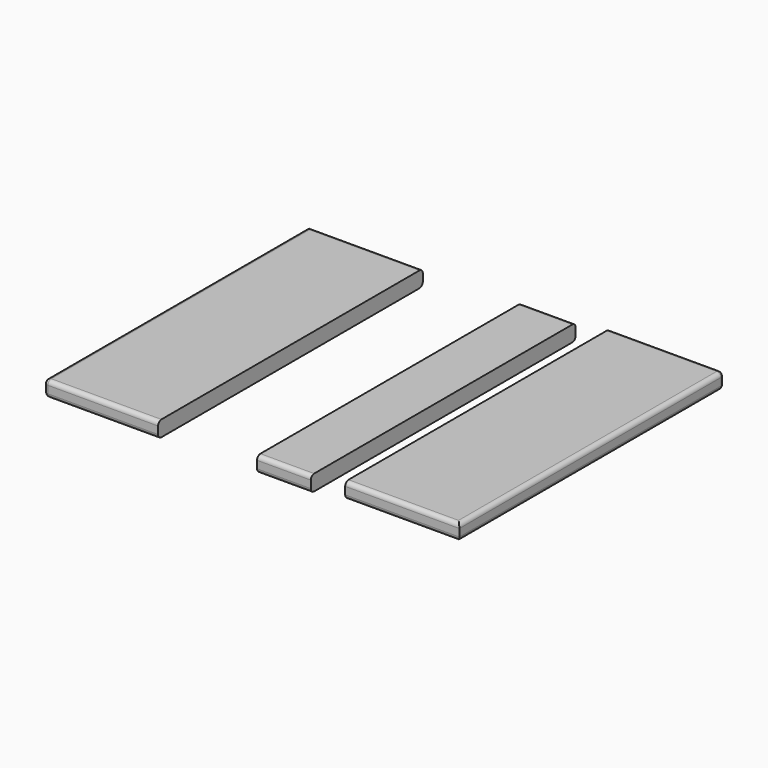
from build123d import *

# Parameters (mm, degrees)
F0_W     = 138
F0_H     = 400
F0_W_2   = 65
F1_DEPTH = 19
F2_R     = 5
F3_R     = 5


with BuildPart() as f1:
    # F0 (on Top) → F1 (new body)
    with BuildSketch(Plane.XY):
        with Locations((-127.417857, 129.780379)):
            Rectangle(F0_W, F0_H)
        with Locations((90.818478, 133.431737)):
            Rectangle(F0_W_2, F0_H)
        with Locations((225.506747, 143.803065)):
            Rectangle(F0_W, F0_H)
    extrude(amount=F1_DEPTH)

    # F2
    f2_edges = [f1.edges().sort_by_distance(p)[0] for p in [
        (-196.417857, 129.780379, 19),
        (-127.417857, 329.780379, 19),
        (90.818478, 333.431737, 19),
        (225.506747, 343.803065, 19),
        (294.506747, 143.803065, 0),
        (225.506747, -56.196935, 0),
        (90.818478, -66.568263, 0),
        (-127.417857, -70.219621, 0),
    ]]
    fillet(f2_edges, radius=F2_R)

    # F3
    f3_edges = [f1.edges().sort_by_distance(p)[0] for p in [
        (-124.917857, -70.219621, 19),
        (-196.417857, 132.280379, 0),
        (-127.417857, 329.780379, 0),
        (90.818478, 333.431737, 0),
        (90.818478, -66.568263, 19),
        (223.006747, 343.803065, 0),
        (294.506747, 141.303065, 19),
        (225.506747, -56.196935, 19),
    ]]
    fillet(f3_edges, radius=F3_R)


solid = f1.part
